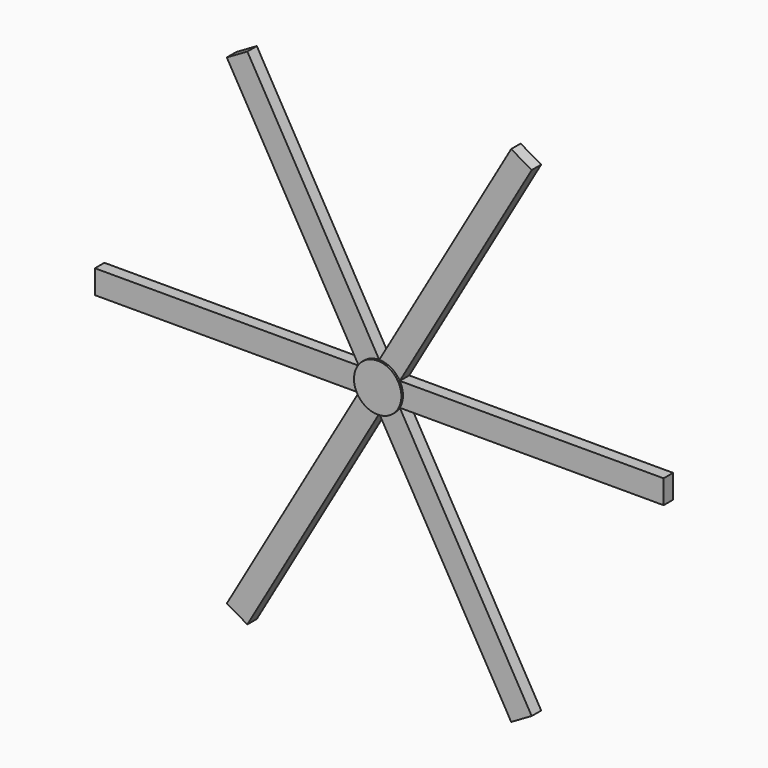
from build123d import *

# Parameters (mm, degrees)
F1_DEPTH = 38.1
F3_DEPTH = 6.35


with BuildPart() as f1:
    # F0 (on Front) → F1 (new body)
    with BuildSketch(Plane.XZ):
        Polygon((21.9970452561, -38.1), (-21.9970452561, -38.1), (0, -76.2), (424.2044321158, -810.9436292205), (457.2, -791.8936292205), align=None)
        Polygon((65.9911357684, -38.1), (21.9970452561, -38.1), (457.2, -791.8936292205), (490.1955678842, -772.8436292205), align=None)
        Polygon((914.4, 0), (0, 0), (21.9970452561, -38.1), (65.9911357684, -38.1), (914.4, -38.1), align=None)
        Polygon((21.9970452561, 38.1), (0, 0), (914.4, 0), (914.4, 38.1), (65.9911357684, 38.1), align=None)
        Polygon((457.2, 791.8936292205), (21.9970452561, 38.1), (65.9911357684, 38.1), (490.1955678842, 772.8436292205), align=None)
        Polygon((0, 76.2), (21.9970452561, 38.1), (457.2, 791.8936292205), (424.2044321158, 810.9436292205), align=None)
        Polygon((-21.9970452561, 38.1), (21.9970452561, 38.1), (0, 76.2), (-424.2044321158, 810.9436292205), (-457.2, 791.8936292205), align=None)
        Polygon((-65.9911357684, 38.1), (-21.9970452561, 38.1), (-457.2, 791.8936292205), (-490.1955678842, 772.8436292205), align=None)
        Polygon((-21.9970452561, -38.1), (0, 0), (-914.4, 0), (-914.4, -38.1), (-65.9911357684, -38.1), align=None)
        Polygon((-914.4, 0), (0, 0), (-21.9970452561, 38.1), (-65.9911357684, 38.1), (-914.4, 38.1), align=None)
        Polygon((-457.2, -791.8936292205), (-21.9970452561, -38.1), (-65.9911357684, -38.1), (-490.1955678842, -772.8436292205), align=None)
        Polygon((0, -76.2), (-21.9970452561, -38.1), (-457.2, -791.8936292205), (-424.2044321158, -810.9436292205), align=None)
        Polygon((-21.9970452561, 38.1), (0, 0), (21.9970452561, 38.1), align=None)
        Polygon((21.9970452561, -38.1), (0, 0), (-21.9970452561, -38.1), align=None)
    extrude(amount=-F1_DEPTH)

    # F2 (on face) → F3 (join)
    with BuildSketch(Plane.XZ):
        with BuildLine():
            ThreePointArc((65.9911357684, -38.1), (73.6035479632, -19.7220112368), (76.2, 0))
            ThreePointArc((76.2, 0), (73.6035479632, 19.7220112368), (65.9911357684, 38.1))
            ThreePointArc((65.9911357684, 38.1), (38.1, 65.9911357684), (0, 76.2))
            ThreePointArc((0, 76.2), (-38.1, 65.9911357684), (-65.9911357684, 38.1))
            ThreePointArc((-65.9911357684, 38.1), (-76.2, 0), (-65.9911357684, -38.1))
            ThreePointArc((-65.9911357684, -38.1), (-38.1, -65.9911357684), (0, -76.2))
            ThreePointArc((0, -76.2), (38.1, -65.9911357684), (65.9911357684, -38.1))
        make_face()
    extrude(amount=F3_DEPTH)


solid = f1.part
